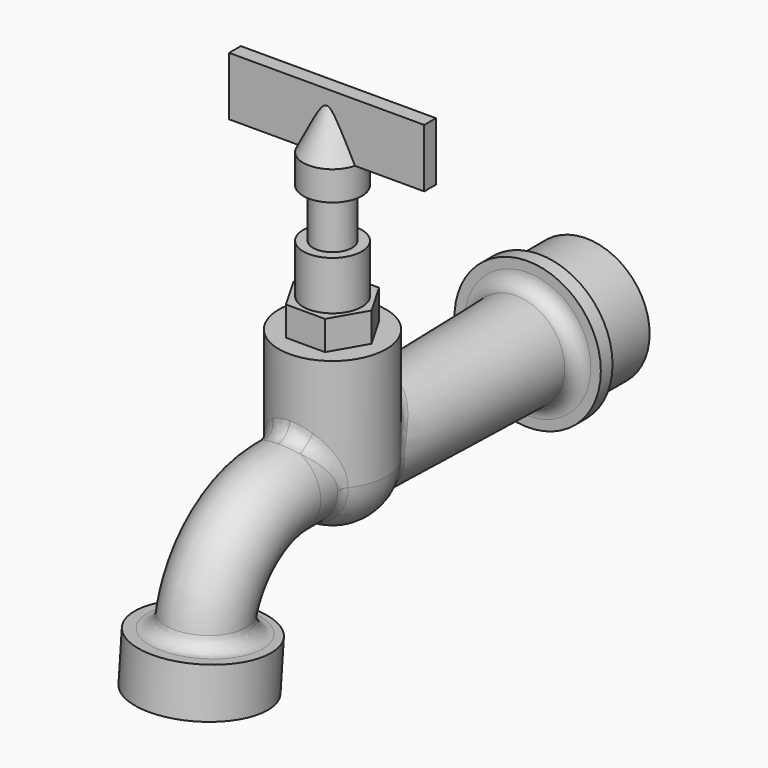
from build123d import *

# Parameters (mm, degrees)
TORUS_R                     = 8
TORUS_ANGLE                 = 85
CYLINDER007_R               = 8
CYLINDER007_DEPTH           = 10
CYLINDER006_R               = 13
CYLINDER006_DEPTH           = 12
CYLINDER005_R               = 15
CYLINDER005_DEPTH           = 3
BOX_W                       = 40
BOX_H                       = 3
BOX_DEPTH                   = 12
CYLINDER004_R               = 6
CYLINDER004_DEPTH           = 6
CYLINDER003_R               = 4
CYLINDER003_DEPTH           = 10
CYLINDER002_R               = 6
CYLINDER002_DEPTH           = 10
EXTRUDE_DEPTH               = 6
CYLINDER001_R               = 11
CYLINDER001_DEPTH           = 3
CYLINDER_R                  = 11
CYLINDER_DEPTH              = 20
CYLINDER008_R               = 13
CYLINDER008_DEPTH           = 10
CYLINDER008_PLACEMENT_ANGLE = 5
FILLET_R                    = 3


with BuildPart() as torus:
    # Torus → Torus (revolve)
    with BuildSketch(Plane(origin=(0, -13, -20), x_dir=(0, 0, 1), z_dir=(0, 1, 0))):
        with Locations((20, 0)):
            Circle(TORUS_R)
    revolve(axis=Axis((0, -13, -20), (1, 0, 0)), revolution_arc=TORUS_ANGLE)


with BuildPart() as cylinder007:
    # Cylinder007 → Cylinder007 (new body)
    with BuildSketch(Plane.XZ.offset(3)):
        Circle(CYLINDER007_R)
    extrude(amount=CYLINDER007_DEPTH)


with BuildPart() as cylinder006:
    # Cylinder006 → Cylinder006 (new body)
    with BuildSketch(Plane(origin=(0, 53, 0), x_dir=(1, 0, 0), z_dir=(0, 1, 0))):
        Circle(CYLINDER006_R)
    extrude(amount=CYLINDER006_DEPTH)


with BuildPart() as cylinder005:
    # Cylinder005 → Cylinder005 (new body)
    with BuildSketch(Plane(origin=(0, 50, 0), x_dir=(1, 0, 0), z_dir=(0, 1, 0))):
        Circle(CYLINDER005_R)
    extrude(amount=CYLINDER005_DEPTH)


with BuildPart() as cone001:
    # Cone001 → Cone001 (revolve)
    with BuildSketch(Plane.XY):
        Polygon((0, 0), (9, 0), (10, 50), (0, 50), align=None)
    revolve(axis=Axis((0, 0, 0), (0, 1, 0)))


with BuildPart() as cube:
    # Box → Box (new body)
    with BuildSketch(Plane(origin=(-20, -1.5, 55), x_dir=(1, 0, 0), z_dir=(0, 0, 1))):
        with Locations((20, 1.5)):
            Rectangle(BOX_W, BOX_H)
    extrude(amount=BOX_DEPTH)


with BuildPart() as cone:
    # Cone → Cone (revolve)
    with BuildSketch(Plane(origin=(0, 0, 55), x_dir=(1, 0, 0), z_dir=(0, -1, 0))):
        Polygon((0, 0), (6, 0), (1, 10), (0, 10), align=None)
    revolve(axis=Axis((0, 0, 55), (0, 0, 1)))


with BuildPart() as cylinder004:
    # Cylinder004 → Cylinder004 (new body)
    with BuildSketch(Plane.XY.offset(49)):
        Circle(CYLINDER004_R)
    extrude(amount=CYLINDER004_DEPTH)


with BuildPart() as cylinder003:
    # Cylinder003 → Cylinder003 (new body)
    with BuildSketch(Plane.XY.offset(39)):
        Circle(CYLINDER003_R)
    extrude(amount=CYLINDER003_DEPTH)


with BuildPart() as cylinder002:
    # Cylinder002 → Cylinder002 (new body)
    with BuildSketch(Plane.XY.offset(29)):
        Circle(CYLINDER002_R)
    extrude(amount=CYLINDER002_DEPTH)


with BuildPart() as extrude_body:
    # RegularPolygon → Extrude (new body)
    with BuildSketch(Plane(origin=(0, 0, 23), x_dir=(0, 1, 0), z_dir=(0, 0, 1))):
        Polygon((0, -8), (6.928203, -4), (6.928203, 4), (0, 8), (-6.928203, 4), (-6.928203, -4), align=None)
    extrude(amount=EXTRUDE_DEPTH)


with BuildPart() as cylinder001:
    # Cylinder001 → Cylinder001 (new body)
    with BuildSketch(Plane.XY.offset(20)):
        Circle(CYLINDER001_R)
    extrude(amount=CYLINDER001_DEPTH)


with BuildPart() as cylinder:
    # Cylinder → Cylinder (new body)
    with BuildSketch(Plane.XY):
        Circle(CYLINDER_R)
    extrude(amount=CYLINDER_DEPTH)


with BuildPart() as sphere:
    # Sphere → Sphere (revolve)
    with BuildSketch(Plane.XZ):
        with BuildLine():
            ThreePointArc((0, -11), (11, 0), (0, 11))
            Line((0, 11), (0, -11))
        make_face()
    revolve(axis=Axis((0, 0, 0), (0, 0, 1)))


with BuildPart() as fillet_body:
    # Cylinder008 → Cylinder008 (new body)
    with BuildSketch(Plane.XY):
        Circle(CYLINDER008_R)
    extrude(amount=CYLINDER008_DEPTH)


with BuildPart() as fillet_body_1:
    # Cylinder008 placement: moved
    add(fillet_body.part.moved(Location((0, -34.090961, -28.08335))).rotate(Axis((0, -34.090961, -28.08335), (-1, 0, 0)), CYLINDER008_PLACEMENT_ANGLE))

    # Fusion: union Torus, Cylinder007, Cylinder006, Cylinder005, Cone001, Cube, Cone, Cylinder004, Cylinder003, Cylinder002, Extrude body, Cylinder001, Cylinder, Sphere
    add(torus.part)
    add(cylinder007.part)
    add(cylinder006.part)
    add(cylinder005.part)
    add(cone001.part)
    add(cube.part)
    add(cone.part)
    add(cylinder004.part)
    add(cylinder003.part)
    add(cylinder002.part)
    add(extrude_body.part)
    add(cylinder001.part)
    add(cylinder.part)
    add(sphere.part)

    # Fillet
    fillet_edges = [fillet_body_1.edges().sort_by_distance(p)[0] for p in [
        (0, -24.944323, -18.845379),
        (0, -7.549834, -8),
        (0, -11, 8),
        (0, 6.145922, -9.122918),
        (0, 11, 9.22),
        (-10, 50, 0),
    ]]
    fillet(fillet_edges, radius=FILLET_R)


solid = fillet_body_1.part
